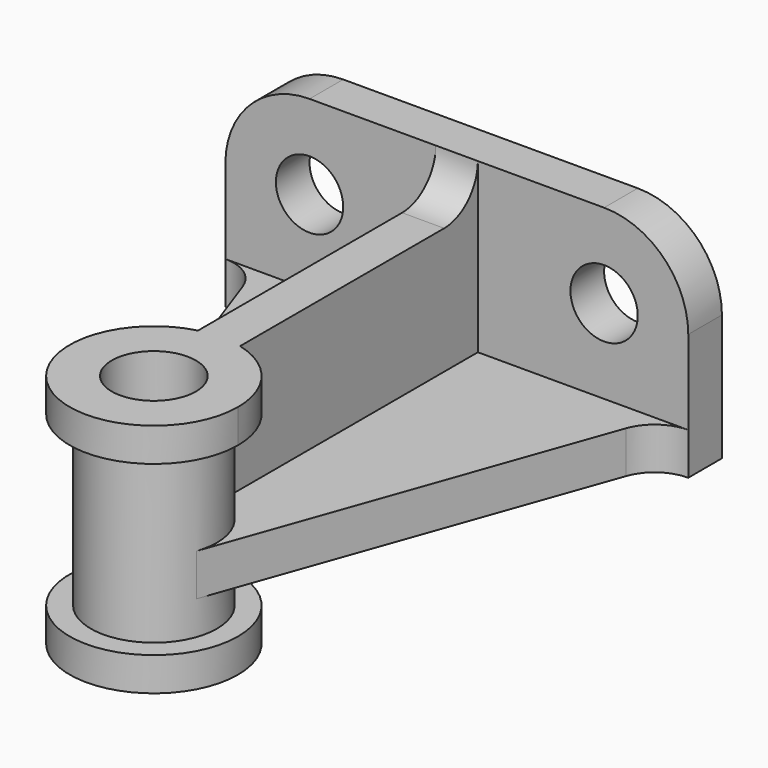
from build123d import *

# Parameters (mm, degrees)
F1_DEPTH  = 10
F4_DEPTH  = 10
F6_DEPTH  = 5
F8_DEPTH  = 56
F10_DEPTH = 8
F11_R     = 20
F11_R_2   = 15
F12_DEPTH = 8
F13_R     = 10
F14_DEPTH = 56.001
F15_R     = 8
F16_DEPTH = 10


with BuildPart() as f1:
    # F0 (on Front) → F1 (new body)
    with BuildSketch(Plane.XZ):
        with BuildLine():
            Line((-55, 30), (-55, 0))
            Line((-55, 0), (55, 0))
            Line((55, 0), (55, 30))
            ThreePointArc((55, 30), (49.1421356237, 44.1421356237), (35, 50))
            Line((35, 50), (-35, 50))
            ThreePointArc((-35, 50), (-49.1421356237, 44.1421356237), (-55, 30))
        make_face()
    extrude(amount=F1_DEPTH)

    # F3 (on offset) → F4 (join)
    with BuildSketch(Plane.XY.offset(10)):
        with BuildLine():
            Line((-15.9212083525, -100), (-14.1320931815, -105.0283140623))
            ThreePointArc((-14.1320931815, -105.0283140623), (0, -115), (14.1320931815, -105.0283140623))
            Line((14.1320931815, -105.0283140623), (15.9212083525, -100))
            Line((15.9212083525, -100), (45.5786045457, -16.6477906251))
            ThreePointArc((45.5786045457, -16.6477906251), (49.2346766677, -11.8292566511), (55, -10))
            Line((55, -10), (-55, -10))
            ThreePointArc((-55, -10), (-49.2346766677, -11.8292566511), (-45.5786045457, -16.6477906251))
            Line((-45.5786045457, -16.6477906251), (-15.9212083525, -100))
        make_face()
    extrude(amount=-F4_DEPTH)

    # F5 (on Right) → F6 (join, symmetric)
    with BuildSketch(Plane.YZ):
        with BuildLine():
            Line((-100, 10), (-10, 10))
            Line((-10, 10), (-10, 40))
            Line((-10, 40), (-10, 50))
            ThreePointArc((-10, 50), (-12.9289321881, 42.9289321881), (-20, 40))
            Line((-20, 40), (-100, 40))
            Line((-100, 40), (-100, 10))
        make_face()
    extrude(amount=F6_DEPTH, both=True)

    # F7 (on face) → F8 (join)
    with BuildSketch(Plane.XY.offset(40)):
        with BuildLine():
            Line((5, -100), (5, -85.8578643763))
            ThreePointArc((5, -85.8578643763), (0, -85), (-5, -85.8578643763))
            Line((-5, -85.8578643763), (-5, -100))
            Line((-5, -100), (5, -100))
        make_face()
        with BuildLine():
            ThreePointArc((-5, -85.8578643763), (-8.6602540378, -112.2474487139), (15, -100))
            ThreePointArc((15, -100), (12.2474487139, -91.3397459622), (5, -85.8578643763))
            Line((5, -85.8578643763), (5, -100))
            Line((5, -100), (-5, -100))
            Line((-5, -100), (-5, -85.8578643763))
        make_face()
    extrude(amount=-F8_DEPTH)

    # F9 (on face) → F10 (join)
    with BuildSketch(Plane.XY.offset(40)):
        with BuildLine():
            ThreePointArc((-5, -80.635083269), (-12.2474487139, -115.8113883008), (20, -100))
            ThreePointArc((20, -100), (15.8113883008, -87.7525512861), (5, -80.635083269))
            Line((5, -80.635083269), (5, -85.8578643763))
            ThreePointArc((5, -85.8578643763), (0, -115), (-5, -85.8578643763))
            Line((-5, -85.8578643763), (-5, -80.635083269))
        make_face()
    extrude(amount=-F10_DEPTH)

    # F11 (on face) → F12 (join)
    with BuildSketch(Plane(origin=(0, 0, -16), x_dir=(1, 0, 0), z_dir=(0, 0, -1))):
        with Locations((0, 100)):
            Circle(F11_R)
        with Locations((0, 100)):
            Circle(F11_R_2, mode=Mode.SUBTRACT)
        with Locations((0, 100)):
            Circle(F11_R)
        with Locations((0, 100)):
            Circle(F11_R_2, mode=Mode.SUBTRACT)
    extrude(amount=-F12_DEPTH)

    # F13 (on face) → F14 (cut, through all)
    with BuildSketch(Plane.XY.offset(40)):
        with Locations((0, -100)):
            Circle(F13_R)
    extrude(amount=-F14_DEPTH, mode=Mode.SUBTRACT)

    # F15 (on face) → F16 (cut, through all)
    with BuildSketch(Plane(origin=(0, 0, 0), x_dir=(-1, 0, 0), z_dir=(0, 1, 0))):
        with Locations((-35, 30)):
            Circle(F15_R)
        with Locations((35, 30)):
            Circle(F15_R)
    extrude(amount=-F16_DEPTH, mode=Mode.SUBTRACT)


solid = f1.part
